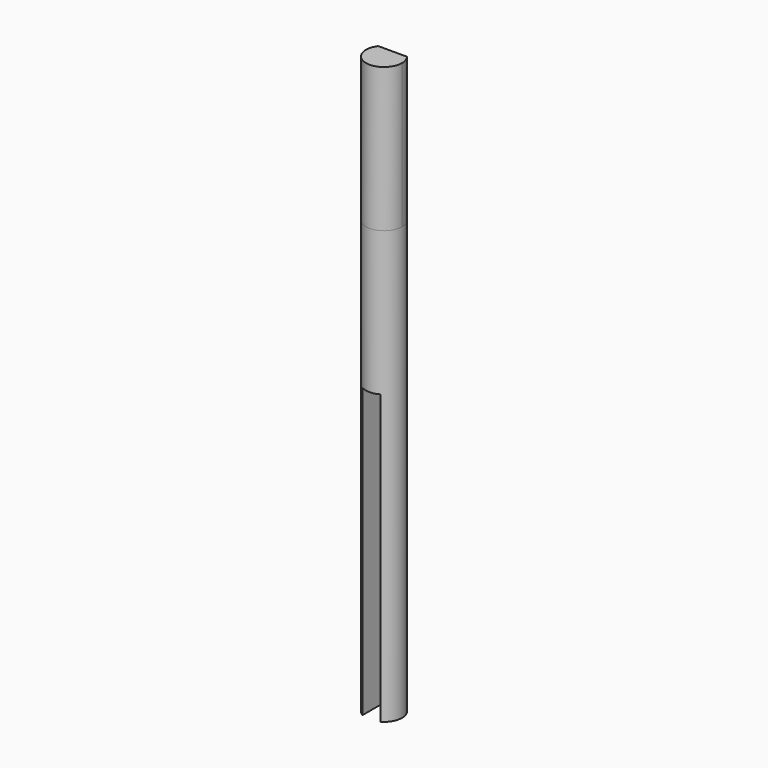
from build123d import *

# Parameters (mm, degrees)
F0_R     = 3.175
F1_DEPTH = 76.2
F3_DEPTH = 25.4
F5_DEPTH = 50.8


with BuildPart() as f1:
    # F0 (on Top) → F1 (new body)
    with BuildSketch(Plane.XY):
        with Locations((-45.71999982, 18.5057148337)):
            Circle(F0_R)
    extrude(amount=F1_DEPTH)

    # F2 (on face) → F3 (join)
    with BuildSketch(Plane.XY.offset(76.2)):
        with BuildLine():
            Line((-43.17999982, 20.4107148337), (-48.25999982, 20.4107148337))
            ThreePointArc((-48.25999982, 20.4107148337), (-46.7240229771, 15.4936453624), (-42.54499982, 18.5057148337))
            ThreePointArc((-42.54499982, 18.5057148337), (-42.7079303487, 19.5097379908), (-43.17999982, 20.4107148337))
        make_face()
    extrude(amount=F3_DEPTH)

    # F4 (on face) → F5 (cut)
    with BuildSketch(Plane(origin=(0, 0, 0), x_dir=(1, 0, 0), z_dir=(0, 0, -1))):
        with BuildLine():
            Line((-47.30749982, -15.7560841767), (-47.30749982, -21.2553454908))
            ThreePointArc((-47.30749982, -21.2553454908), (-45.71999982, -21.6807148337), (-44.13249982, -21.2553454908))
            Line((-44.13249982, -21.2553454908), (-44.13249982, -15.7560841767))
            ThreePointArc((-44.13249982, -15.7560841767), (-45.71999982, -15.3307148337), (-47.30749982, -15.7560841767))
        make_face()
    extrude(amount=-F5_DEPTH, mode=Mode.SUBTRACT)


solid = f1.part
